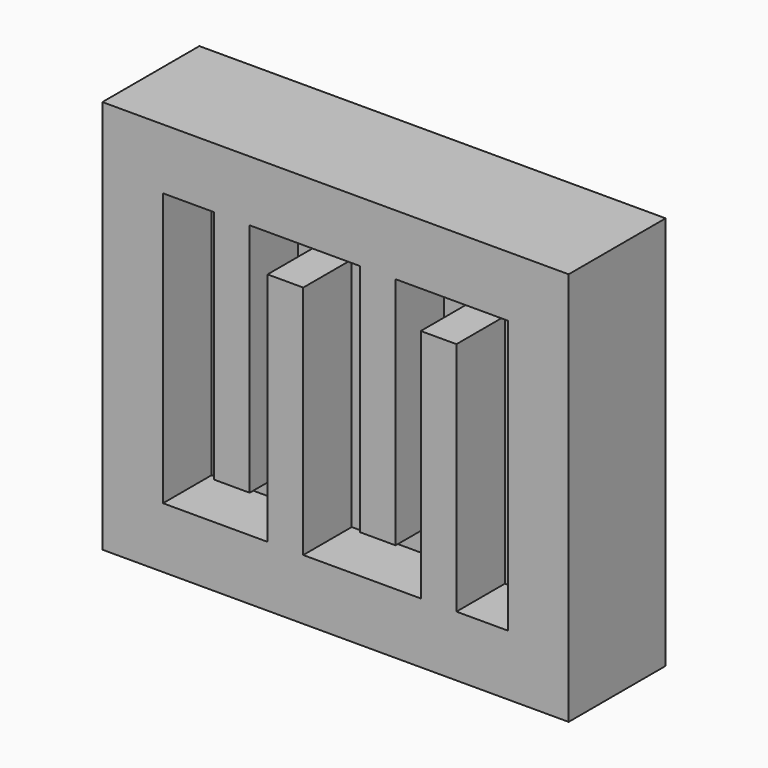
from build123d import *

# Parameters (mm, degrees)
F0_W     = 76.930061
F0_H     = 65.020956
F1_DEPTH = 20
F2_T     = -10
F4_D     = 5
F5_W     = 5.887607
F5_H     = 38.850113
F5_H_2   = 38.850112
F5_W_2   = 5.887608
F6_DEPTH = 10


with BuildPart() as f1:
    # F0 (on Front) → F1 (new body)
    with BuildSketch(Plane.XZ):
        with Locations((-0.03422, 1.129311)):
            Rectangle(F0_W, F0_H)
    extrude(amount=F1_DEPTH)

    # F2
    f2_openings = [f1.faces().sort_by_distance(p)[0] for p in [
        (-0.034221, -20, 1.129311),
    ]]
    offset(amount=F2_T, openings=f2_openings)

    # F4 (through all)
    with Locations(Plane.XZ.offset(10)):
        with Locations((-24.052991, 19.35718), (23.135278, -16.549327)):
            Hole(F4_D / 2)

    # F5 (on face) → F6 (join)
    with BuildSketch(Plane.XZ.offset(10)):
        with Locations((-17.145664, 4.214733)):
            Rectangle(F5_W, F5_H)
        with Locations((-8.301861, -1.956111)):
            Rectangle(F5_W, F5_H_2)
        with Locations((16.974628, -1.956111)):
            Rectangle(F5_W_2, F5_H_2)
        with Locations((6.936476, 4.405541)):
            Rectangle(F5_W, F5_H)
    extrude(amount=F6_DEPTH)


solid = f1.part
